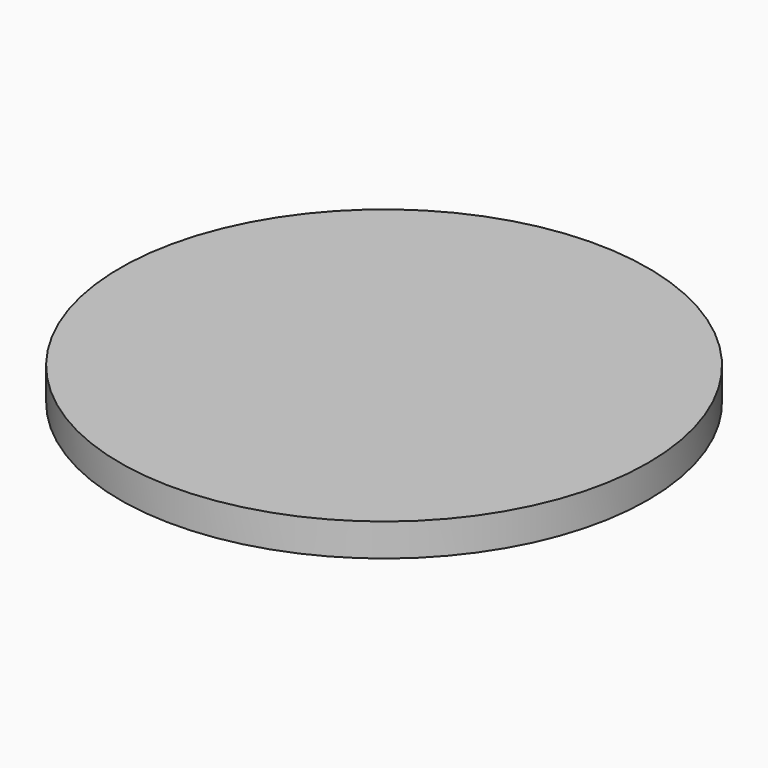
from build123d import *

# Parameters (mm, degrees)
F0_R     = 64.765585
F1_DEPTH = 8
F3_R     = 60.430357
F4_DEPTH = 4


with BuildPart() as f1:
    # F0 (on Top) → F1 (new body)
    with BuildSketch(Plane.XY):
        Circle(F0_R)
    extrude(amount=F1_DEPTH)

    # F3 (on face) → F4 (join)
    with BuildSketch(Plane.XY.offset(8)):
        Circle(F3_R)
    extrude(amount=-F4_DEPTH)


solid = f1.part
